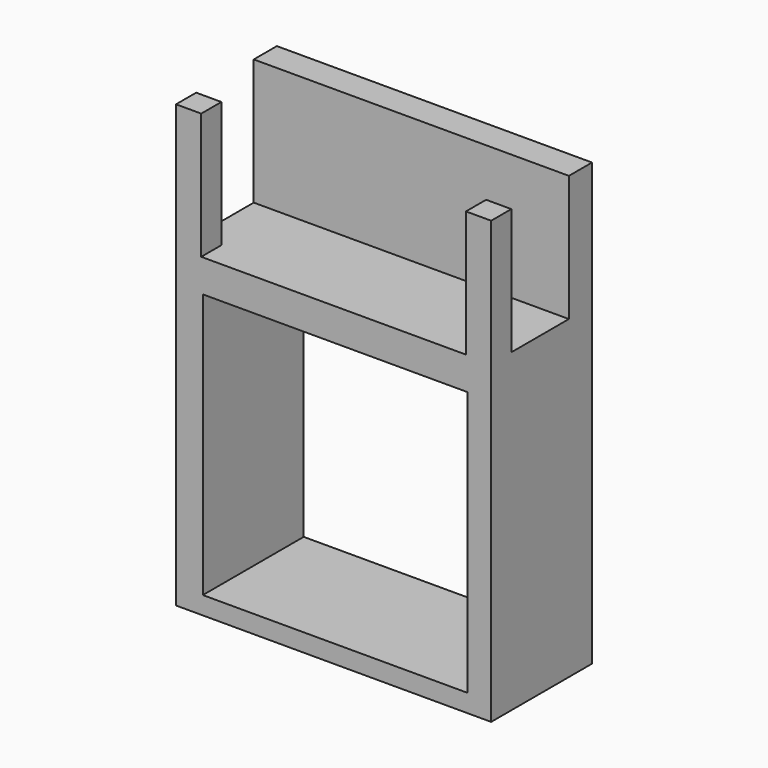
from build123d import *

# Parameters (mm, degrees)
F1_W     = 63.5
F1_H     = 63.5
F1_W_2   = 53.34
F1_H_2   = 53.34
F2_DEPTH = 25.4
F3_W     = 63.5
F3_H     = 5.820871
F3_W_2   = 5.08
F3_H_2   = 5.08
F4_DEPTH = 25.4


with BuildPart() as f2:
    # F1 (on face) → F2 (new body)
    with BuildSketch(Plane.XZ):
        with Locations((-31.75, 31.75)):
            Rectangle(F1_W, F1_H)
        with Locations((-31.421901, 30.279322)):
            Rectangle(F1_W_2, F1_H_2, mode=Mode.SUBTRACT)
    extrude(amount=F2_DEPTH)

    # F3 (on face) → F4 (join)
    with BuildSketch(Plane.XY.offset(63.5)):
        with Locations((-31.75, -2.910435)):
            Rectangle(F3_W, F3_H)
        with Locations((-60.96, -22.86)):
            Rectangle(F3_W_2, F3_H_2)
        with Locations((-2.54, -22.86)):
            Rectangle(F3_W_2, F3_H_2)
    extrude(amount=F4_DEPTH)


solid = f2.part
